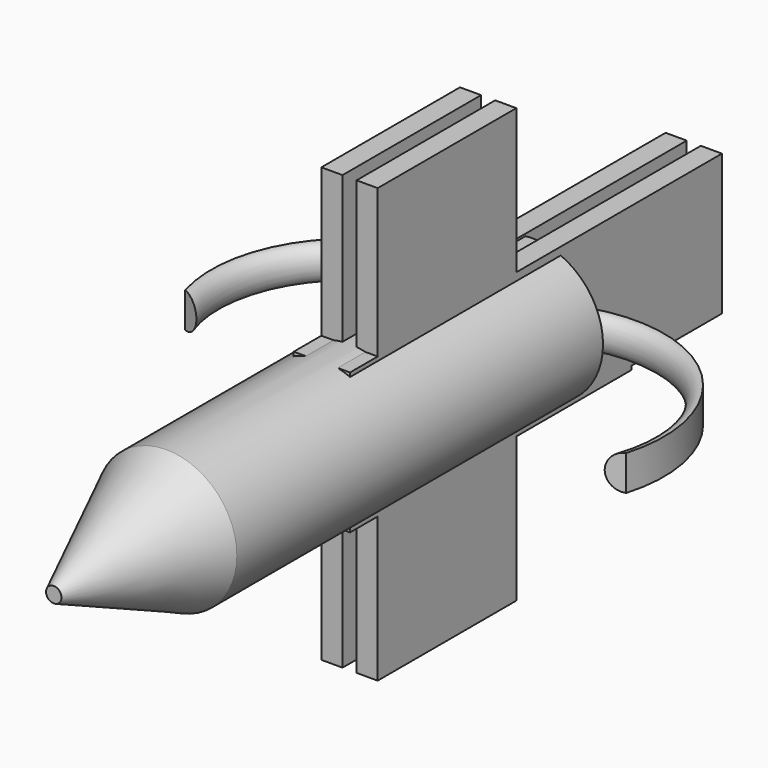
from build123d import *

# Parameters (mm, degrees)
F0_W      = 24.6273766255
F0_H      = 152.4
F3_R      = 25.4
F4_DEPTH  = 82.55
F8_W      = 62.4961581021
F8_H      = 152.4
F9_DEPTH  = 7.62
F11_W     = 127
F11_H     = 50.8
F12_DEPTH = 7.62
F13_W     = 152.4
F13_H     = 76.2
F14_DEPTH = 7.62
F15_R     = 25.4
F16_DEPTH = 50.8
F16_TAPER = 24
F17_DEPTH = 25.4


with BuildPart() as f1:
    # F0 (on Top) → F1 (revolve)
    with BuildSketch(Plane.XY):
        with Locations((1.4390293509, 0)):
            Rectangle(F0_W, F0_H)
    revolve(axis=Axis((13.7527176636, 0, 0), (0, -1, 0)))


with BuildPart() as f4:
    # F3 (on Front) → F4 (new body, symmetric)
    with BuildSketch(Plane.XZ):
        Circle(F3_R)
    extrude(amount=F4_DEPTH, both=True)

    # F8 (on offset) → F9 (join)
    with BuildSketch(Plane.YZ.offset(2.54)):
        with Locations((31.2480790511, 2.0054676748)):
            Rectangle(F8_W, F8_H)
    extrude(amount=F9_DEPTH)

    # F10: F4 across plane


with BuildPart() as f4_1:
    add(f4.part)
    add(f4.part.mirror(Plane.XY))

    # F11 (on offset) → F12 (join)
    with BuildSketch(Plane.YZ.offset(2.54)):
        with Locations((51.0253053619, -0.6605200469)):
            Rectangle(F11_W, F11_H)
    extrude(amount=F12_DEPTH)

    # F13 (on offset) → F14 (join)
    with BuildSketch(Plane.YZ.offset(2.54)):
        with Locations((79.006247285, 13.3819643736)):
            Rectangle(F13_W, F13_H)
    extrude(amount=F14_DEPTH)

    # F15 (on face) → F16 (join)
    with BuildSketch(Plane.XZ.offset(82.55)):
        Circle(F15_R)
    extrude(amount=F16_DEPTH, taper=F16_TAPER)

    # F17 (cut): faces of the model
    f17_faces = [f4_1.faces().sort_by_distance(p)[0] for p in [
        (6.35, 108.8512026936, 51.4819643736),
        (6.35, 88.510731732, -26.0605200469),
    ]]
    extrude(f17_faces, amount=-F17_DEPTH, dir=(0, 0, 1), mode=Mode.SUBTRACT)

    # F20: sweep along a path in F18
    with BuildLine(Plane.XY) as f20_path:
        ThreePointArc((79.5428454876, 25.338916108), (15.8456347969, 87.7762718464), (0, 0))
    # F19 (on Right) → F20 (sweep)
    with BuildSketch(Plane.YZ):
        with BuildLine():
            ThreePointArc((0, -6.35), (6.35, 0), (0, 6.35))
            Line((0, 6.35), (0, -6.35))
        make_face()
    sweep(path=f20_path.line)

    # F21: F4 across plane


with BuildPart() as f4_2:
    add(f4_1.part)
    add(f4_1.part.mirror(Plane.YZ))


solid = f4_2.part
